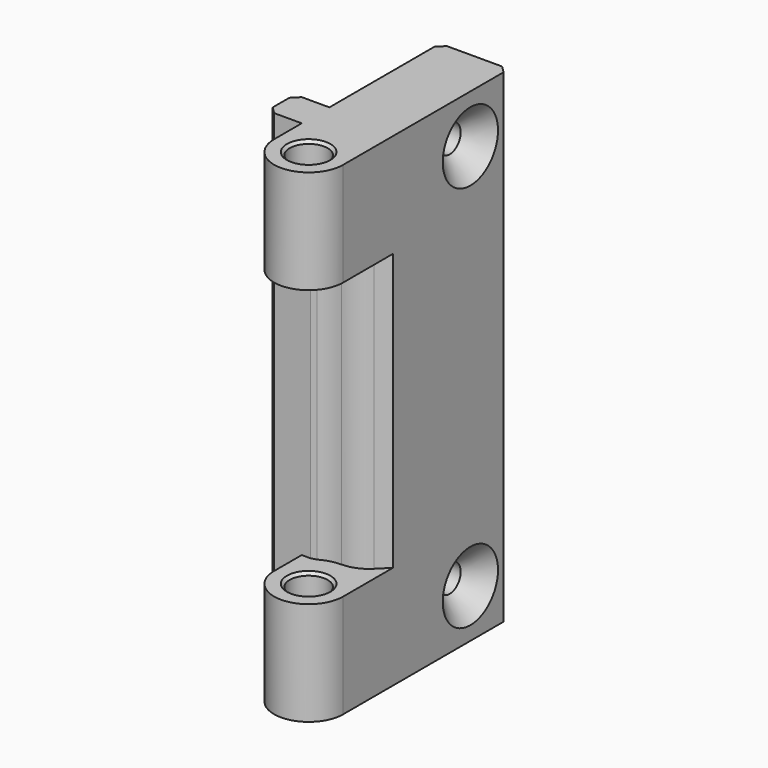
from build123d import *

# Parameters (mm, degrees)
SKETCH007_R          = 2.75
PAD004_DEPTH         = 35
SKETCH008_W          = 10
SKETCH008_H          = 10
POCKET003_DEPTH      = 20
SKETCH009_R          = 6
POCKET004_DEPTH      = 20
CHAMFER007_SIZE      = 0.4
CHAMFER008_SIZE      = 0.4
CHAMFER009_SIZE      = 1
SKETCH014_R          = 2
POCKET008_DEPTH      = 10.001
POCKET008_DEPTH_BACK = 5.001
CHAMFER014_SIZE      = 1
CHAMFER019_SIZE      = 3
POCKET011_DEPTH      = 20
FILLET007_R          = 5


with BuildPart() as part:
    # Sketch007 → Pad004 (new body, symmetric)
    with BuildSketch(Plane.XY):
        with BuildLine():
            ThreePointArc((-5, 0), (0, -5), (5, 0))
            Line((5, 30), (5, 0))
            Line((-5, 30), (5, 30))
            Line((-5, 10), (-5, 30))
            Line((-10, 10), (-5, 10))
            Line((-10, 5), (-10, 10))
            Line((-5, 5), (-10, 5))
            Line((-5, 0), (-5, 5))
        make_face()
        Circle(SKETCH007_R, mode=Mode.SUBTRACT)
    extrude(amount=PAD004_DEPTH, both=True)

    # Sketch008 → Pocket003 (cut, symmetric)
    with BuildSketch(Plane.XY):
        Rectangle(SKETCH008_W, SKETCH008_H)
    extrude(amount=POCKET003_DEPTH, both=True, mode=Mode.SUBTRACT)

    # Sketch009 → Pocket004 (cut, symmetric)
    with BuildSketch(Plane.XY):
        Circle(SKETCH009_R)
    extrude(amount=POCKET004_DEPTH, both=True, mode=Mode.SUBTRACT)

    # Chamfer007
    chamfer007_edges = [part.edges().sort_by_distance(p)[0] for p in [
        (-3.316625, 5, 0),
    ]]
    chamfer(chamfer007_edges, length=CHAMFER007_SIZE)

    # Chamfer008
    chamfer008_edges = [part.edges().sort_by_distance(p)[0] for p in [
        (-2.75, 0, 20),
        (-2.75, 0, -20),
        (-2.75, 0, -35),
        (-2.75, 0, 35),
    ]]
    chamfer(chamfer008_edges, length=CHAMFER008_SIZE)

    # Chamfer009
    chamfer009_edges = [part.edges().sort_by_distance(p)[0] for p in [
        (-10, 5, 0),
        (-10, 10, 0),
        (5, 30, 0),
        (-5, 30, 0),
    ]]
    chamfer(chamfer009_edges, length=CHAMFER009_SIZE)

    # Sketch014 → Pocket008 (cut, two sides)
    with BuildSketch(Plane.YZ) as pocket008_sk:
        with Locations((23, 28)):
            Circle(SKETCH014_R)
        with Locations((23, -28)):
            Circle(SKETCH014_R)
    extrude(amount=-POCKET008_DEPTH, mode=Mode.SUBTRACT)
    extrude(pocket008_sk.sketch, amount=POCKET008_DEPTH_BACK, mode=Mode.SUBTRACT)

    # Chamfer014
    chamfer014_edges = [part.edges().sort_by_distance(p)[0] for p in [
        (-5, 21, -28),
        (-5, 21, 28),
    ]]
    chamfer(chamfer014_edges, length=CHAMFER014_SIZE)

    # Chamfer019
    chamfer019_edges = [part.edges().sort_by_distance(p)[0] for p in [
        (5, 21, 28),
        (5, 21, -28),
    ]]
    chamfer(chamfer019_edges, length=CHAMFER019_SIZE)

    # Sketch018 → Pocket011 (cut, symmetric)
    with BuildSketch(Plane.XY):
        Polygon((5, 9), (1, 5), (5, 5), align=None)
    extrude(amount=POCKET011_DEPTH, both=True, mode=Mode.SUBTRACT)

    # Fillet007
    fillet007_edges = [part.edges().sort_by_distance(p)[0] for p in [
        (1.741657, 5.741657, 0),
    ]]
    fillet(fillet007_edges, radius=FILLET007_R)


solid = part.part
